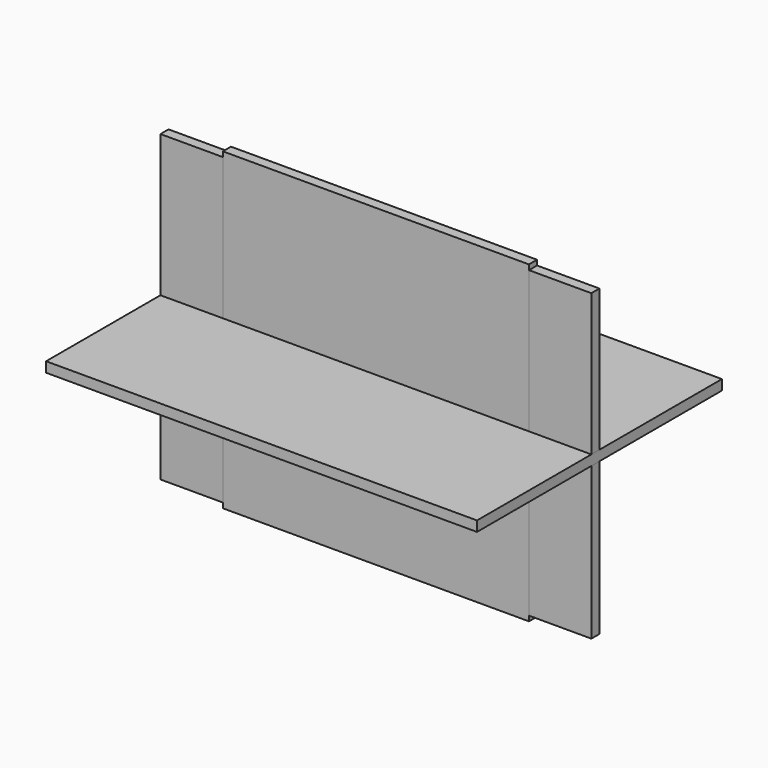
from build123d import *

# Parameters (mm, degrees)
F0_W     = 4251
F0_H     = 3000
F1_DEPTH = 100
F2_W     = 4251
F2_H     = 3020
F3_DEPTH = 100
F4_W     = 3020
F4_H     = 3100
F5_DEPTH = 100


with BuildPart() as f1:
    # F0 (on Front) → F1 (new body)
    with BuildSketch(Plane.XZ):
        Rectangle(F0_W, F0_H)
    extrude(amount=F1_DEPTH)


with BuildPart() as f3:
    # F2 (on Top) → F3 (new body)
    with BuildSketch(Plane.XY):
        Rectangle(F2_W, F2_H)
    extrude(amount=F3_DEPTH)


with BuildPart() as f5:
    # F4 (on Front) → F5 (new body)
    with BuildSketch(Plane.XZ):
        Rectangle(F4_W, F4_H)
    extrude(amount=F5_DEPTH)


solid = Compound([f1.part, f3.part, f5.part])
